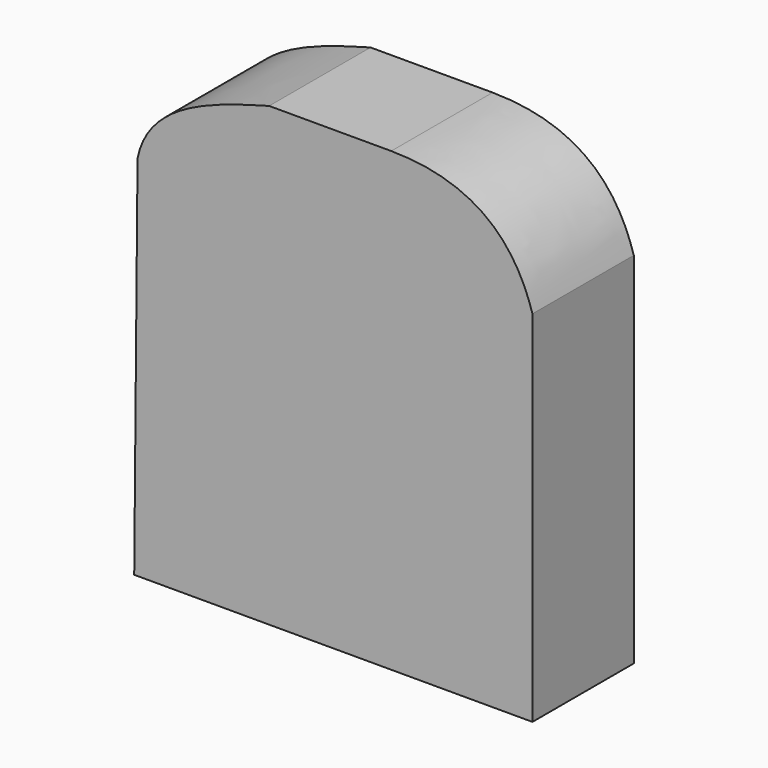
from build123d import *

# Parameters (mm, degrees)
F1_DEPTH = 25.4


with BuildPart() as f1:
    # F0 (on Front) → F1 (new body)
    with BuildSketch(Plane.XZ):
        with BuildLine():
            Line((11.613574, 47.285146), (-12.863359, 47.285146))
            add(Edge.make_bspline(
                [(-39.256287, 29.464364), (-37.011325, 40.653966), (-23.759109, 44.286285), (-12.863359, 47.285146)],
                knots=[0, 0, 0, 0, 31.845988, 31.845988, 31.845988, 31.845988], degree=3))
            Line((-39.256287, 29.464364), (-39.921626, -44.274319))
            Line((-39.921626, -44.274319), (39.921626, -44.274319))
            Line((39.921626, -44.274319), (39.921626, 27.763687))
            add(Edge.make_bspline(
                [(11.613574, 47.285146), (29.656211, 47.159716), (36.841735, 37.921183), (39.921626, 27.763687)],
                knots=[0, 0, 0, 0, 34.386527, 34.386527, 34.386527, 34.386527], degree=3))
        make_face()
    extrude(amount=F1_DEPTH)


solid = f1.part
